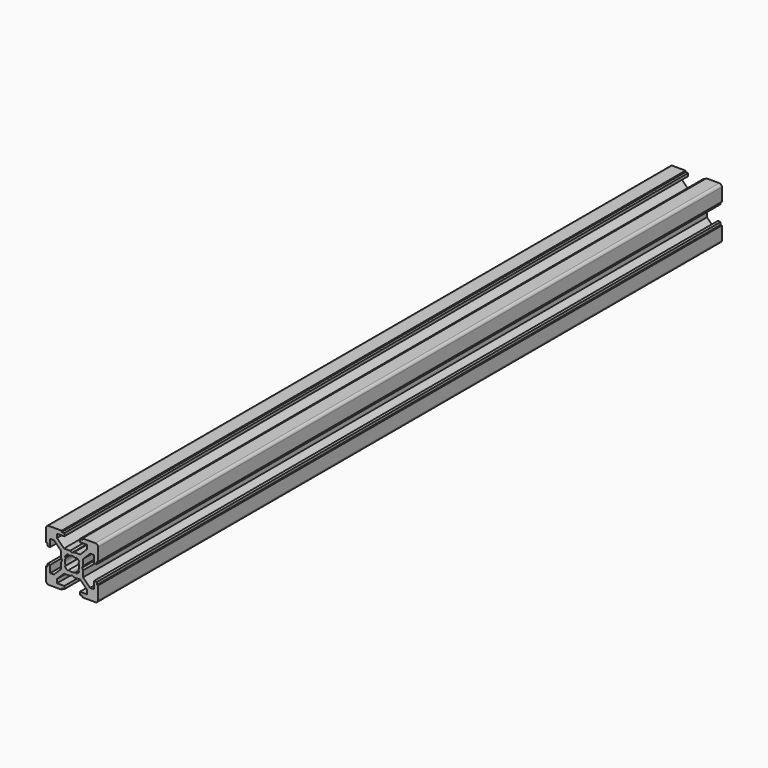
from build123d import *

# Parameters (mm, degrees)
F1_DEPTH = 300
F3_COUNT = 4


with BuildPart() as f1:
    # F0 (on Front) → F1 (new body)
    with BuildSketch(Plane.XZ):
        with BuildLine():
            ThreePointArc((-2.75, 0), (-2.667804, 0.667325), (-2.426129, 1.294758))
            Line((-2.426129, 1.294758), (-2.787674, 1.656303))
            ThreePointArc((-2.787674, 1.656303), (-2.292699, 2.292699), (-1.656303, 2.787674))
            Line((-1.656303, 2.787674), (-1.294758, 2.426129))
            ThreePointArc((-1.294758, 2.426129), (-0.667325, 2.667804), (0, 2.75))
            Line((0, 2.75), (0, 3.85))
            Line((0, 3.85), (-0.75, 4.25))
            Line((-0.75, 4.25), (-3.118629, 4.25))
            Line((-3.118629, 4.25), (-5.8, 6.931371))
            Line((-5.8, 6.931371), (-5.8, 8.4))
            Line((-5.8, 8.4), (-3, 8.4))
            Line((-3, 8.4), (-3, 9.5))
            Line((-3, 9.5), (-4, 9.5))
            Line((-4, 9.5), (-4, 10))
            Line((-4, 10), (-9, 10))
            ThreePointArc((-9, 10), (-9.707107, 9.707107), (-10, 9))
            Line((-10, 9), (-10, 4))
            Line((-10, 4), (-9.5, 4))
            Line((-9.5, 4), (-9.5, 3))
            Line((-9.5, 3), (-8.4, 3))
            Line((-8.4, 3), (-8.4, 5.8))
            Line((-8.4, 5.8), (-6.931371, 5.8))
            Line((-6.931371, 5.8), (-4.25, 3.118629))
            Line((-4.25, 3.118629), (-4.25, 0.75))
            Line((-4.25, 0.75), (-3.85, 0))
            Line((-3.85, 0), (-2.75, 0))
        make_face()
    extrude(amount=F1_DEPTH)

    # F3: F1 ×4 about axis
    f3_axis = Axis((0, -150, 0), (0, -1, 0))


with BuildPart() as f1_1:
    add(f1.part)
    for i in range(1, F3_COUNT):
        add(f1.part.rotate(f3_axis, i * 360 / F3_COUNT))


solid = f1_1.part
